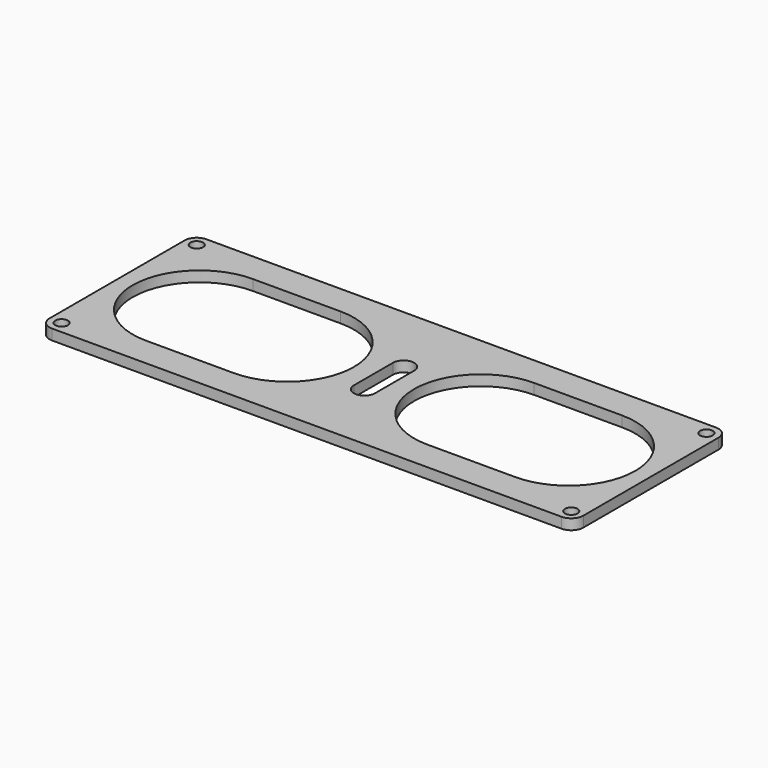
from build123d import *

# Parameters (mm, degrees)
SKETCH_R  = 1.8
PAD_DEPTH = 3


with BuildPart() as part:
    # Sketch → Pad (new body)
    with BuildSketch(Plane.XY):
        with BuildLine():
            Line((-72.55, 27.5), (72.55, 27.5))
            ThreePointArc((76, 24.05), (74.989518, 26.489518), (72.55, 27.5))
            Line((76, 24.05), (76, -24.05))
            ThreePointArc((72.55, -27.5), (74.989518, -26.489518), (76, -24.05))
            Line((72.55, -27.5), (-72.55, -27.5))
            ThreePointArc((-76, -24.05), (-74.989518, -26.489518), (-72.55, -27.5))
            Line((-76, -24.05), (-76, 24.05))
            ThreePointArc((-72.55, 27.5), (-74.989518, 26.489518), (-76, 24.05))
        make_face()
        with Locations((-72.55, -24.05)):
            Circle(SKETCH_R, mode=Mode.SUBTRACT)
        with Locations((-72.55, 24.05)):
            Circle(SKETCH_R, mode=Mode.SUBTRACT)
        with Locations((72.55, 24.05)):
            Circle(SKETCH_R, mode=Mode.SUBTRACT)
        with Locations((72.55, -24.05)):
            Circle(SKETCH_R, mode=Mode.SUBTRACT)
        with BuildLine():
            ThreePointArc((-52.553572, 19), (-71.553572, 0), (-52.553572, -19))
            Line((-52.553572, -19), (-27.553572, -19))
            ThreePointArc((-27.553572, -19), (-8.553572, 0), (-27.553572, 19))
            Line((-52.553572, 19), (-27.553572, 19))
        make_face(mode=Mode.SUBTRACT)
        with BuildLine():
            ThreePointArc((3.026002, 6.967062), (0, 9.993064), (-3.026002, 6.967062))
            Line((-3.026002, 6.967062), (-3.026002, -6.967062))
            ThreePointArc((-3.026002, -6.967062), (0, -9.993064), (3.026002, -6.967062))
            Line((3.026002, 6.967062), (3.026002, -6.967062))
        make_face(mode=Mode.SUBTRACT)
        with BuildLine():
            ThreePointArc((52.553572, -19), (71.553572, 0), (52.553572, 19))
            Line((52.553572, 19), (27.553572, 19))
            ThreePointArc((27.553572, 19), (8.553572, 0), (27.553572, -19))
            Line((52.553572, -19), (27.553572, -19))
        make_face(mode=Mode.SUBTRACT)
    extrude(amount=PAD_DEPTH)


solid = part.part
